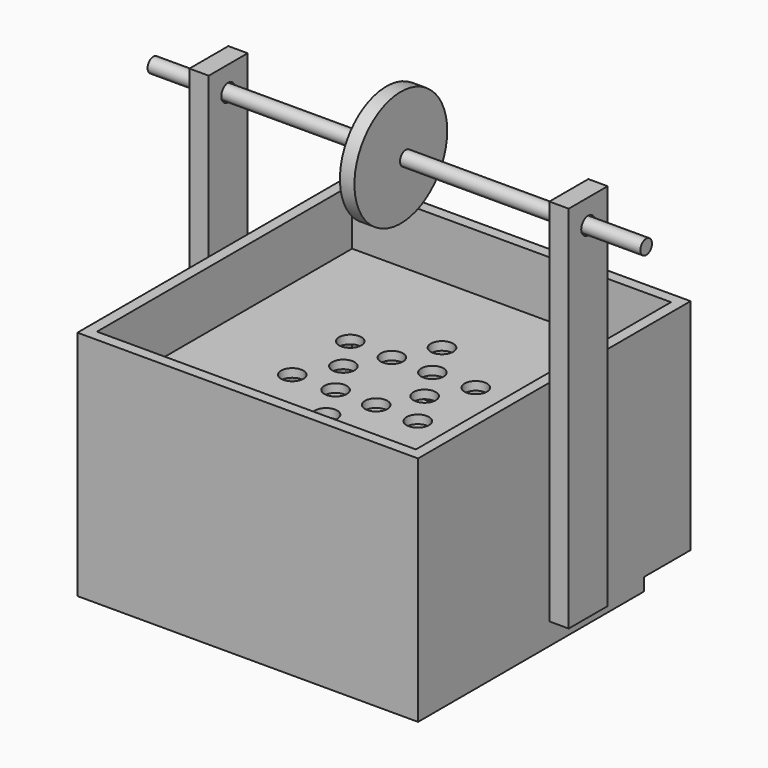
from build123d import *

# Parameters (mm, degrees)
F1_DEPTH  = 101.6
F0_W      = 8.4666666667
F0_H      = 21.3224887848
F2_DEPTH  = 171.45
F3_W      = 21.3224887848
F3_H      = 9.525
F4_DEPTH  = 8.4666666667
F5_W      = 21.3224887848
F5_H      = 9.525
F6_DEPTH  = 8.4666666667
F8_DEPTH  = 177.8
F9_W      = 9.525
F9_H      = 2.1166666667
F10_DEPTH = 114.3
F11_W     = 149.225
F11_H     = 5.6029562838
F12_DEPTH = 25.4
F13_W     = 4.7625
F13_H     = 102.5085025311
F14_DEPTH = 6.35
F15_W     = 139.7
F15_H     = 3.709718585
F15_H_2   = 4.0469653904
F16_DEPTH = 139.7
F17_R     = 4.9022
F18_DEPTH = 25.4
F19_DEPTH = 50.8
F20_R     = 3.175
F21_DEPTH = 177.8
F22_DEPTH = 25.4
F23_DEPTH = 12.7
F26_R     = 25.4
F27_DEPTH = 3.175
F28_DEPTH = 3.175
F30_DEPTH = 3.175


with BuildPart() as f1:
    # F0 (on Top) → F1 (new body)
    with BuildSketch(Plane.XY):
        Polygon((-4.7625, 144.4625), (-4.7625, 139.7), (-4.7625, 88.4736776352), (-4.7625, 67.1511888504), (-4.7625, 0), (-4.7625, -4.7625), (0, -4.7625), (140.5986211039, -4.7625), (144.4625, -4.7625), (144.4625, 67.1511888504), (144.4625, 88.4736776352), (144.4625, 144.4625), (140.5986211039, 144.4625), align=None)
        Polygon((0, 0), (0, 139.7), (139.7, 139.7), (139.7, 95.25), (139.7, 69.85), (139.7, 0), align=None, mode=Mode.SUBTRACT)
    extrude(amount=F1_DEPTH)

    # F0 (on Top) → F2 (join)
    with BuildSketch(Plane.XY):
        Polygon((152.9291666667, 88.4736776352), (144.4625, 88.4736776352), (144.4625, 67.1511888504), (152.9291666667, 67.1511888504), (152.9291666667, 73.3702480793), align=None)
        with Locations((-8.9958333333, 77.8124332428)):
            Rectangle(F0_W, F0_H)
    extrude(amount=F2_DEPTH)

    # F3 (on face) → F4 (cut)
    with BuildSketch(Plane(origin=(-13.2291666667, 0, 0), x_dir=(0, -1, 0), z_dir=(-1, 0, 0))):
        with Locations((-77.8124332428, 4.7625)):
            Rectangle(F3_W, F3_H)
    extrude(amount=-F4_DEPTH, mode=Mode.SUBTRACT)

    # F5 (on face) → F6 (cut)
    with BuildSketch(Plane.YZ.offset(152.9291666667)):
        with Locations((77.8124332428, 4.7625)):
            Rectangle(F5_W, F5_H)
    extrude(amount=-F6_DEPTH, mode=Mode.SUBTRACT)

    # F7 (on face) → F8 (cut)
    with BuildSketch(Plane(origin=(-13.2291666667, 0, 0), x_dir=(0, -1, 0), z_dir=(-1, 0, 0))):
        with BuildLine():
            ThreePointArc((-74.0024332428, 160.6505811214), (-75.1183564065, 163.3446579578), (-77.8124332428, 164.4605811214))
            ThreePointArc((-77.8124332428, 164.4605811214), (-80.5065100791, 157.9565042851), (-74.0024332428, 160.6505811214))
        make_face()
    extrude(amount=-F8_DEPTH, mode=Mode.SUBTRACT)

    # F9 (on face) → F10 (join)
    with BuildSketch(Plane(origin=(0, 0, 0), x_dir=(-1, 0, 0), z_dir=(0, 1, 0))):
        with Locations((-134.9375, 1.0583333333)):
            Rectangle(F9_W, F9_H)
        with Locations((-4.7625, 1.0583333333)):
            Rectangle(F9_W, F9_H)
    extrude(amount=F10_DEPTH)

    # F11 (on face) → F12 (cut)
    with BuildSketch(Plane(origin=(0, 144.4625, 0), x_dir=(-1, 0, 0), z_dir=(0, 1, 0))):
        with Locations((-69.85, 2.8014781419)):
            Rectangle(F11_W, F11_H)
    extrude(amount=-F12_DEPTH, mode=Mode.SUBTRACT)

    # F13 (on face) → F14 (join)
    with BuildSketch(Plane.XY.offset(2.1166666667)):
        with Locations((7.14375, 63.0457487345)):
            Rectangle(F13_W, F13_H)
        Polygon((4.7625, 137.0611190796), (4.7625, 114.3), (9.525, 114.3), (9.525, 11.7914974689), (135.0288540125, 11.7914974689), (135.0288540125, 137.0611190796), align=None)
    extrude(amount=F14_DEPTH)

    # F15 (on face) → F16 (join)
    with BuildSketch(Plane.YZ):
        with Locations((69.85, 74.9544501305)):
            Rectangle(F15_W, F15_H)
        with Locations((69.85, 26.896700263)):
            Rectangle(F15_W, F15_H_2)
    extrude(amount=F16_DEPTH)

    # F17 (on face) → F18 (cut)
    with BuildSketch(Plane.XY.offset(76.809309423)):
        with Locations((87.63, 69.85)):
            Circle(F17_R)
        with Locations((78.74, 85.2479316793)):
            Circle(F17_R)
        with Locations((60.96, 85.2479316793)):
            Circle(F17_R)
        with Locations((52.07, 69.85)):
            Circle(F17_R)
        with Locations((60.96, 54.4520683207)):
            Circle(F17_R)
        with Locations((78.74, 54.4520683207)):
            Circle(F17_R)
        with Locations((69.85, 101.6)):
            Circle(F17_R)
        with Locations((42.3536934298, 85.725)):
            Circle(F17_R)
        with Locations((42.3536934298, 53.975)):
            Circle(F17_R)
        with Locations((69.85, 38.1)):
            Circle(F17_R)
        with Locations((97.3463065702, 53.975)):
            Circle(F17_R)
        with Locations((97.3463065702, 85.725)):
            Circle(F17_R)
    extrude(amount=F18_DEPTH, mode=Mode.SUBTRACT)

    # F17 (on face) → F19 (cut)
    with BuildSketch(Plane.XY.offset(76.809309423)):
        with Locations((87.63, 69.85)):
            Circle(F17_R)
        with Locations((78.74, 85.2479316793)):
            Circle(F17_R)
        with Locations((60.96, 85.2479316793)):
            Circle(F17_R)
        with Locations((52.07, 69.85)):
            Circle(F17_R)
        with Locations((60.96, 54.4520683207)):
            Circle(F17_R)
        with Locations((78.74, 54.4520683207)):
            Circle(F17_R)
        with Locations((69.85, 101.6)):
            Circle(F17_R)
        with Locations((42.3536934298, 85.725)):
            Circle(F17_R)
        with Locations((42.3536934298, 53.975)):
            Circle(F17_R)
        with Locations((69.85, 38.1)):
            Circle(F17_R)
        with Locations((97.3463065702, 53.975)):
            Circle(F17_R)
        with Locations((97.3463065702, 85.725)):
            Circle(F17_R)
    extrude(amount=-F19_DEPTH, mode=Mode.SUBTRACT)

    # F29 (on face) → F30 (join)
    with BuildSketch(Plane(origin=(4.7625, 0, 0), x_dir=(0, -1, 0), z_dir=(-1, 0, 0))):
        Polygon((-144.0501511097, 2.1166666667), (-137.0611190796, 2.1166666667), (-137.0611190796, 2.8456826694), (-142.905190587, 2.8456826694), (-142.905190587, 3.5085524432), (-144.0501511097, 3.5085524432), align=None)
    extrude(amount=-F30_DEPTH)


with BuildPart() as f21:
    # F20 (on face) → F21 (new body)
    with BuildSketch(Plane.YZ.offset(152.9291666667)):
        with Locations((77.8124332428, 160.6505811214)):
            Circle(F20_R)
    extrude(amount=-F21_DEPTH)

    # F22 (add): a face of the model
    f22_faces = [f21.faces().sort_by_distance(p)[0] for p in [
        (152.9291666667, 77.8124332428, 160.6505811214),
    ]]
    extrude(f22_faces, amount=F22_DEPTH)

    # F23 (add): a face of the model
    f23_faces = [f21.faces().sort_by_distance(p)[0] for p in [
        (-24.8708333333, 77.8124332428, 160.6505811214),
    ]]
    extrude(f23_faces, amount=F23_DEPTH)

    # F26 (on plane+point) → F27 (join)
    with BuildSketch(Plane.YZ.offset(69.85)):
        with Locations((75.0901028514, 161.9357317686)):
            Circle(F26_R)
    extrude(amount=F27_DEPTH)

    # F28 (add): a face of the model
    f28_faces = [f21.faces().sort_by_distance(p)[0] for p in [
        (69.85, 50.4085233411, 161.9357317686),
    ]]
    extrude(f28_faces, amount=F28_DEPTH)


solid = Compound([f1.part, f21.part])
